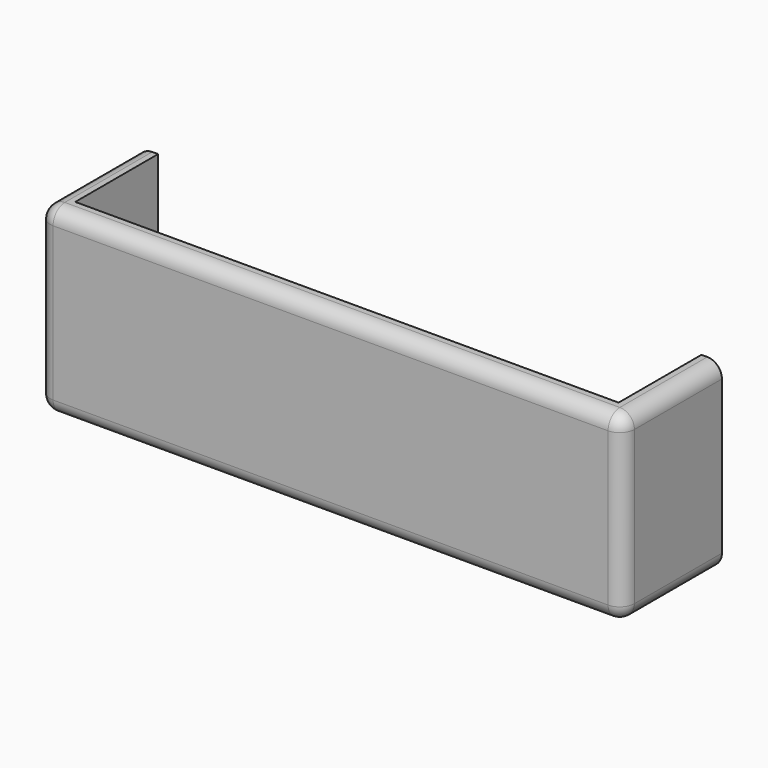
from build123d import *

# Parameters (mm, degrees)
F0_W     = 203.2
F0_H     = 63.5
F1_DEPTH = 50.8
F2_T     = -7.112
F3_W     = 7.667125
F3_H     = 63.5
F4_DEPTH = 208.026
F5_R     = 5.08


with BuildPart() as f1:
    # F0 (on Front) → F1 (new body)
    with BuildSketch(Plane.XZ):
        with Locations((-0.2083, -30.832973)):
            Rectangle(F0_W, F0_H)
    extrude(amount=F1_DEPTH)

    # F2
    f2_openings = [f1.faces().sort_by_distance(p)[0] for p in [
        (-0.2083, -25.4, 0.917027),
    ]]
    offset(amount=F2_T, openings=f2_openings)

    # F3 (on face) → F4 (cut)
    with BuildSketch(Plane(origin=(-101.8083, 0, 0), x_dir=(0, -1, 0), z_dir=(-1, 0, 0))):
        with Locations((3.833562, -30.832973)):
            Rectangle(F3_W, F3_H)
    extrude(amount=-F4_DEPTH, mode=Mode.SUBTRACT)

    # F5
    f5_edges = [f1.edges().sort_by_distance(p)[0] for p in [
        (-101.8083, -29.233563, 0.917027),
        (-0.2083, -50.8, 0.917027),
        (-101.8083, -50.8, -30.832973),
        (-101.8083, -29.233563, -62.582973),
        (-0.2083, -50.8, -62.582973),
        (101.3917, -29.233563, -62.582973),
        (101.3917, -50.8, -30.832973),
        (101.3917, -29.233563, 0.917027),
    ]]
    fillet(f5_edges, radius=F5_R)


solid = f1.part
